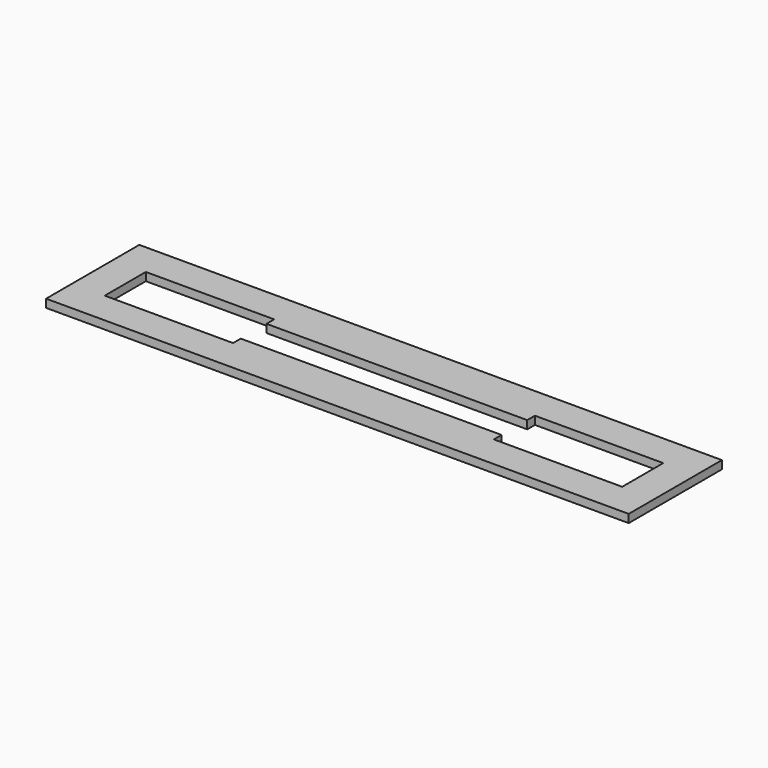
from build123d import *

# Parameters (mm, degrees)
F0_W     = 226.97694
F0_H     = 45.3898
F1_DEPTH = 3.175
F3_DEPTH = 25.4


with BuildPart() as f1:
    # F0 (on Top) → F1 (new body)
    with BuildSketch(Plane.XY):
        with Locations((113.48847, 22.6949)):
            Rectangle(F0_W, F0_H)
    extrude(amount=F1_DEPTH)

    # F2 (on face) → F3 (cut)
    with BuildSketch(Plane.XY.offset(3.175)):
        Polygon((12.7, 32.69996), (12.7, 12.7), (62.6999, 12.7), (62.6999, 16.44904), (72.02678, 16.44904), (154.95016, 16.44904), (164.27704, 16.44904), (164.27704, 12.7), (214.27694, 12.7), (214.27694, 32.69996), (164.27704, 32.69996), (164.27704, 28.95092), (154.95016, 28.95092), (72.02678, 28.95092), (62.6999, 28.95092), (62.6999, 32.69996), align=None)
    extrude(amount=-F3_DEPTH, mode=Mode.SUBTRACT)


solid = f1.part
